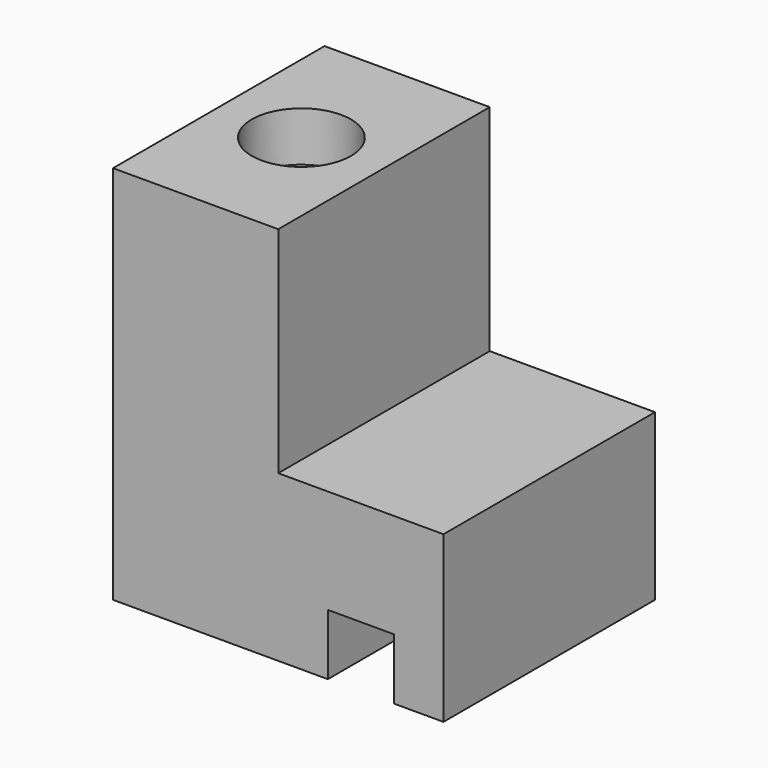
from build123d import *

# Parameters (mm, degrees)
F1_DEPTH = 80
F2_W     = 50
F2_H     = 80
F2_R     = 15
F3_DEPTH = 15


with BuildPart() as f1:
    # F0 (on Front) → F1 (new body)
    with BuildSketch(Plane.XZ):
        Polygon((7.260843, 50), (-42.739157, 50), (-42.739157, -50), (22.260843, -50), (22.260843, -31.529605), (42.260843, -31.529605), (42.260843, -50), (57.260843, -50), (57.260843, 0), (7.260843, 0), align=None)
    extrude(amount=F1_DEPTH)

    # F2 (on face) → F3 (join)
    with BuildSketch(Plane.XY.offset(50)):
        with Locations((-17.739157, -40)):
            Rectangle(F2_W, F2_H)
        with Locations((-17.739157, -40)):
            Circle(F2_R, mode=Mode.SUBTRACT)
    extrude(amount=F3_DEPTH)


solid = f1.part
